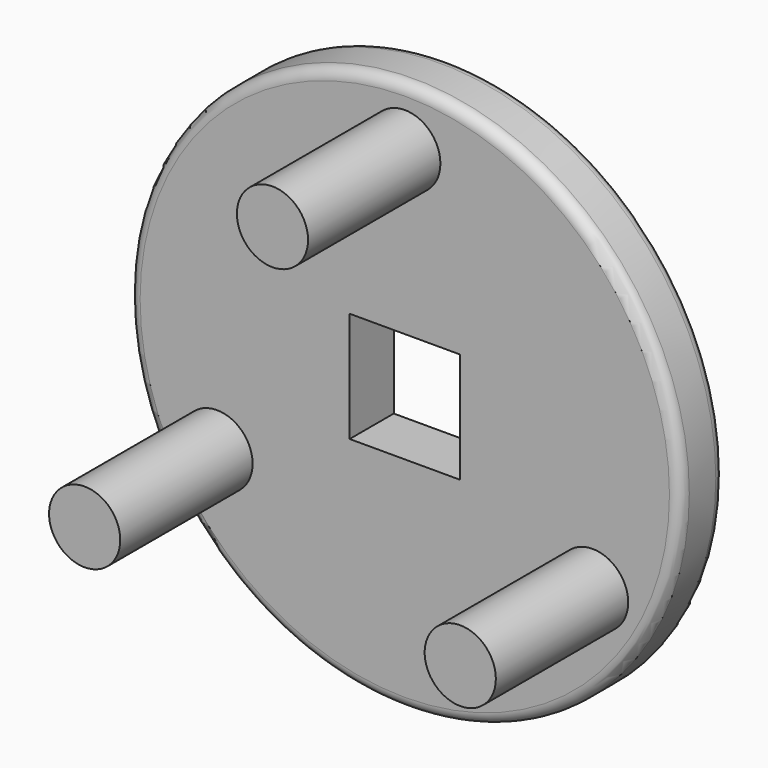
from build123d import *

# Parameters (mm, degrees)
F0_R     = 3.2275405411
F1_DEPTH = 20
F0_R_2   = 25
F0_W     = 10
F0_H     = 10
F2_DEPTH = 5
F3_R     = 1


with BuildPart() as f1:
    # F0 (on Front) → F1 (new body)
    with BuildSketch(Plane.XZ):
        with Locations((17.0290375666, -9.8317194231)):
            Circle(F0_R)
    extrude(amount=F1_DEPTH)



with BuildPart() as f1b:
    # F0 (on Front) → F1, piece 2 (new body)
    with BuildSketch(Plane.XZ):
        with Locations((-17.0290375666, -9.8317194231)):
            Circle(F0_R)
    extrude(amount=F1_DEPTH)


with BuildPart() as f1c:
    # F0 (on Front) → F1, piece 3 (new body)
    with BuildSketch(Plane.XZ):
        with Locations((0, 19.6634388463)):
            Circle(F0_R)
    extrude(amount=F1_DEPTH)


with BuildPart() as f1_1:
    add(f1.part)

    add(f1b.part)  # F2 merges F1b

    add(f1c.part)  # F2 merges F1c
    # F0 (on Front) → F2 (join)
    with BuildSketch(Plane.XZ):
        Circle(F0_R_2)
        with Locations((-17.0290375666, -9.8317194231)):
            Circle(F0_R, mode=Mode.SUBTRACT)
        with Locations((17.0290375666, -9.8317194231)):
            Circle(F0_R, mode=Mode.SUBTRACT)
        Rectangle(F0_W, F0_H, mode=Mode.SUBTRACT)
        with Locations((0, 19.6634388463)):
            Circle(F0_R, mode=Mode.SUBTRACT)
    extrude(amount=F2_DEPTH)

    # F3
    f3_edges = [f1_1.edges().sort_by_distance(p)[0] for p in [
        (-25, 0, 0),
        (-25, -5, 0),
    ]]
    fillet(f3_edges, radius=F3_R)


solid = f1_1.part
